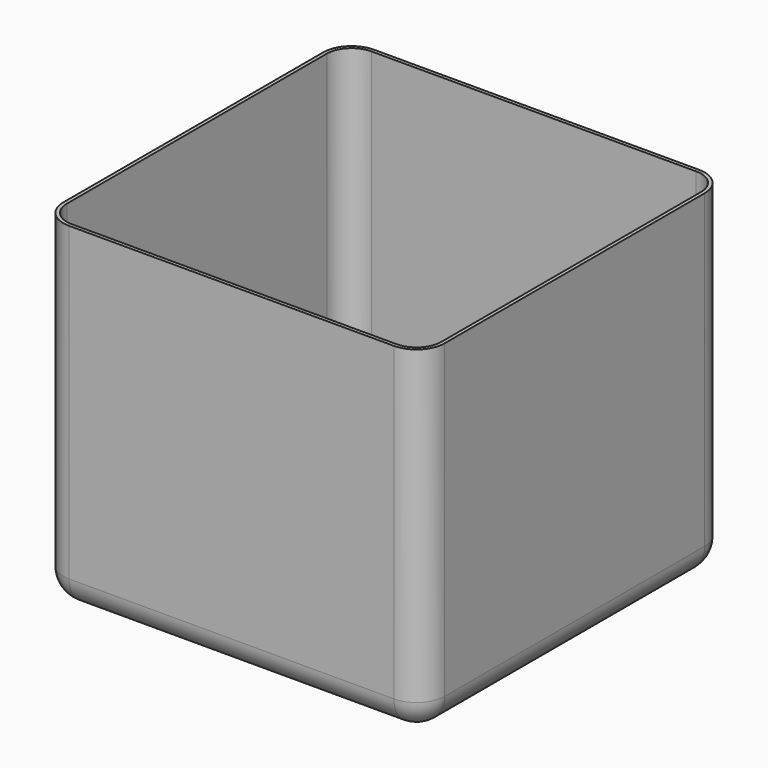
from build123d import *

# Parameters (mm, degrees)
F0_W     = 270
F0_H     = 270
F1_DEPTH = 240
F2_R     = 20
F3_T     = -2.5


with BuildPart() as f1:
    # F0 (on Top) → F1 (new body)
    with BuildSketch(Plane.XY):
        with Locations((137.330786, 0)):
            Rectangle(F0_W, F0_H)
    extrude(amount=-F1_DEPTH)

    # F2
    f2_edges = [f1.edges().sort_by_distance(p)[0] for p in [
        (137.330786, -135, -240),
        (272.330786, 0, -240),
        (137.330786, 135, -240),
        (2.330786, 0, -240),
        (2.330786, -135, -120),
        (272.330786, -135, -120),
        (272.330786, 135, -120),
        (2.330786, 135, -120),
    ]]
    fillet(f2_edges, radius=F2_R)

    # F3
    f3_openings = [f1.faces().sort_by_distance(p)[0] for p in [
        (137.330786, 0, 0),
    ]]
    offset(amount=F3_T, openings=f3_openings)


solid = f1.part
